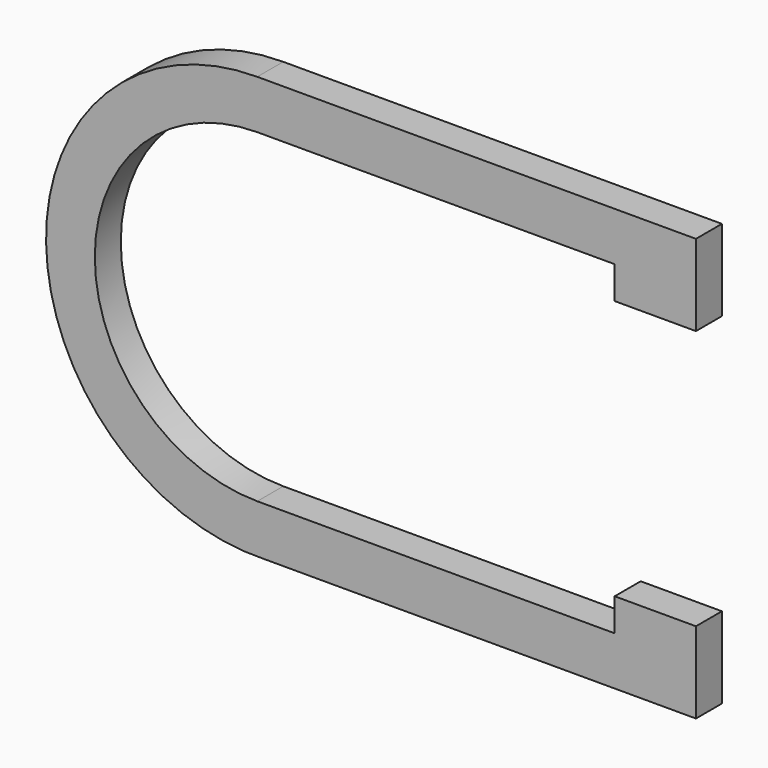
from build123d import *

# Parameters (mm, degrees)
F1_DEPTH = 25.4


with BuildPart() as f1:
    # F0 (on Front) → F1 (new body)
    with BuildSketch(Plane.XZ):
        with BuildLine():
            ThreePointArc((0, -127), (-127, 0), (0, 127))
            Line((0, 127), (279.4, 127))
            Line((279.4, 127), (279.4, 101.6))
            Line((279.4, 101.6), (342.9, 101.6))
            Line((342.9, 101.6), (342.9, 127))
            Line((342.9, 127), (342.9, 165.1))
            Line((342.9, 165.1), (279.4, 165.1))
            Line((279.4, 165.1), (0, 165.1))
            ThreePointArc((0, 165.1), (-165.076599, -2.779669), (5.55855, -165.006401))
            Line((5.55855, -165.006401), (279.4, -165.006401))
            Line((279.4, -165.006401), (342.9, -165.006401))
            Line((342.9, -165.006401), (342.9, -127))
            Line((342.9, -127), (342.9, -101.506401))
            Line((342.9, -101.506401), (279.4, -101.506401))
            Line((279.4, -101.506401), (279.4, -127))
            Line((279.4, -127), (0, -127))
        make_face()
    extrude(amount=F1_DEPTH)


solid = f1.part
